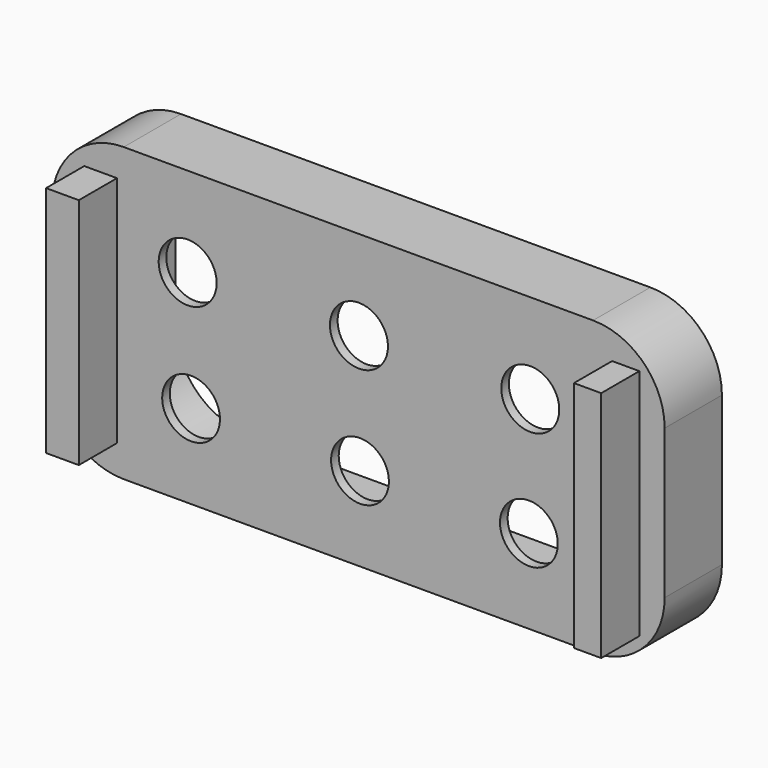
from build123d import *

# Parameters (mm, degrees)
F1_DEPTH = 15
F3_DEPTH = 13
F4_R     = 6.077125
F4_R_2   = 6.056925
F5_DEPTH = 2.001
F6_W     = 6.860256
F6_H     = 48.87931
F6_W_2   = 5.716875
F7_DEPTH = 25


with BuildPart() as f1:
    # F0 (on Front) → F1 (new body)
    with BuildSketch(Plane.XZ):
        with BuildLine():
            ThreePointArc((-64.182252, -15.639039), (-59.788853, -26.245641), (-49.182252, -30.639039))
            Line((-49.182252, -30.639039), (49.182252, -30.639039))
            ThreePointArc((49.182252, -30.639039), (59.788853, -26.245641), (64.182252, -15.639039))
            Line((64.182252, -15.639039), (64.182252, 15.639039))
            ThreePointArc((64.182252, 15.639039), (59.788853, 26.245641), (49.182252, 30.639039))
            Line((49.182252, 30.639039), (-49.182252, 30.639039))
            ThreePointArc((-49.182252, 30.639039), (-59.788853, 26.245641), (-64.182252, 15.639039))
            Line((-64.182252, 15.639039), (-64.182252, -15.639039))
        make_face()
    extrude(amount=F1_DEPTH)

    # F2 (on Front) → F3 (cut)
    with BuildSketch(Plane.XZ):
        with BuildLine():
            ThreePointArc((-50.308529, -8.867968), (-45.915131, -19.47457), (-35.308529, -23.867968))
            Line((-35.308529, -23.867968), (35.308529, -23.867968))
            ThreePointArc((35.308529, -23.867968), (45.915131, -19.47457), (50.308529, -8.867968))
            Line((50.308529, -8.867968), (50.308529, 8.867968))
            ThreePointArc((50.308529, 8.867968), (45.915131, 19.47457), (35.308529, 23.867968))
            Line((35.308529, 23.867968), (-35.308529, 23.867968))
            ThreePointArc((-35.308529, 23.867968), (-45.915131, 19.47457), (-50.308529, 8.867968))
            Line((-50.308529, 8.867968), (-50.308529, -8.867968))
        make_face()
    extrude(amount=F3_DEPTH, mode=Mode.SUBTRACT)

    # F4 (on face) → F5 (cut, through all)
    with BuildSketch(Plane(origin=(0, -13, 0), x_dir=(-1, 0, 0), z_dir=(0, 1, 0))):
        with Locations((-36.016334, 11.862524)):
            Circle(F4_R)
        with Locations((-0.116334, 11.862524)):
            Circle(F4_R)
        with Locations((35.783666, 11.862524)):
            Circle(F4_R)
        with Locations((-35.730492, -13.005898)):
            Circle(F4_R_2)
        with Locations((-0.330492, -13.005898)):
            Circle(F4_R_2)
        with Locations((35.069508, -13.005898)):
            Circle(F4_R_2)
    extrude(amount=-F5_DEPTH, mode=Mode.SUBTRACT)

    # F6 (on Front) → F7 (join)
    with BuildSketch(Plane.XZ):
        with Locations((-54.024503, 0)):
            Rectangle(F6_W, F6_H)
        with Locations((56.025408, 0)):
            Rectangle(F6_W_2, F6_H)
    extrude(amount=F7_DEPTH)


solid = f1.part
